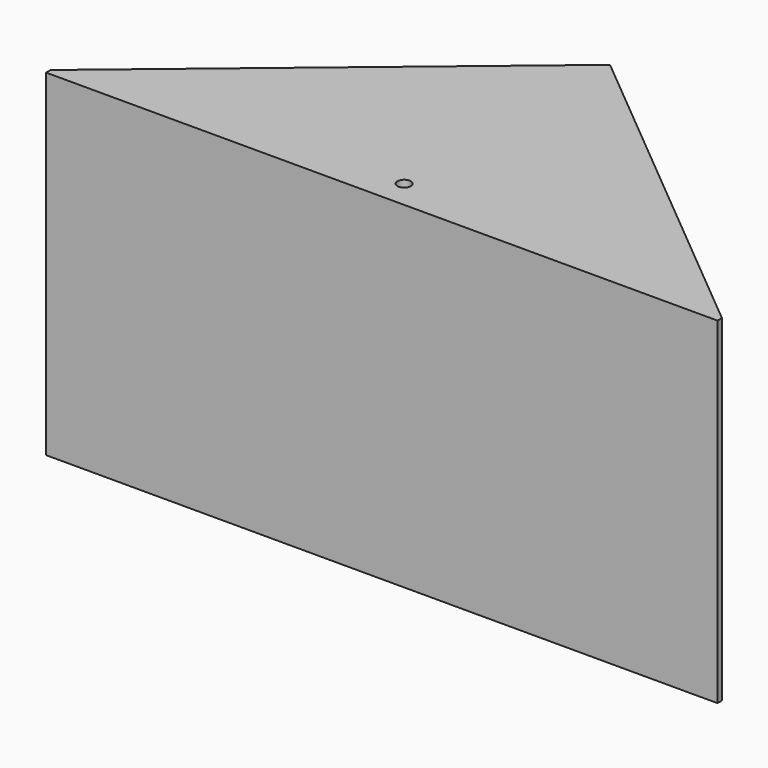
from build123d import *

# Parameters (mm, degrees)
PAD_DEPTH    = 1
PAD001_DEPTH = 28.1
PAD002_DEPTH = 1
SKETCH003_R  = 0.6
POCKET_DEPTH = 30.1


with BuildPart() as part:
    # Sketch → Pad (new body)
    with BuildSketch(Plane.XY):
        Polygon((0, 0), (60, 0), (60, 0.5), (30, 25.5), (0, 0.5), align=None)
    extrude(amount=PAD_DEPTH)

    # Sketch001 (on Face7 of Pad) → Pad001 (join)
    with BuildSketch(Plane.XY.offset(1)):
        Polygon((0, 0), (0, 0.5), (23.756329, 2.5), (30, 25.5), (36.243671, 2.5), (60, 0.5), (60, 0), align=None)
    extrude(amount=PAD001_DEPTH)

    # Sketch002 (on Face13 of Pad001) → Pad002 (join)
    with BuildSketch(Plane.XY.offset(29.1)):
        Polygon((0, 0), (0, 0.5), (30, 25.5), (60, 0.5), (60, 0), align=None)
    extrude(amount=PAD002_DEPTH)

    # Sketch003 (on Face20 of Pad002) → Pocket (cut)
    with BuildSketch(Plane.XY.offset(30.1)):
        with Locations((30, 2.5)):
            Circle(SKETCH003_R)
    extrude(amount=-POCKET_DEPTH, mode=Mode.SUBTRACT)


solid = part.part
